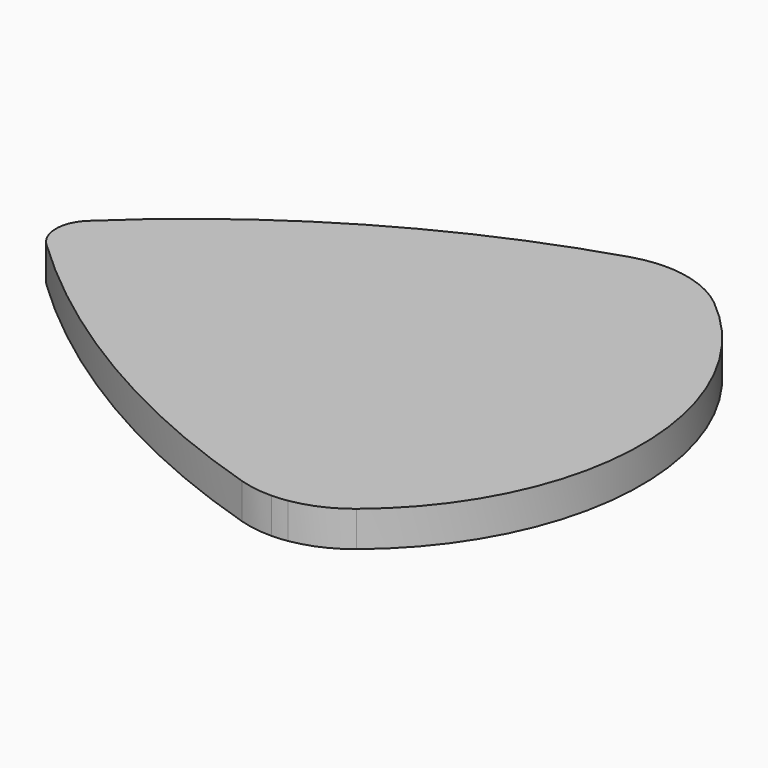
from build123d import *

# Parameters (mm, degrees)
F1_DEPTH = 2


with BuildPart() as f1:
    # F0 (on Top) → F1 (new body)
    with BuildSketch(Plane.XY):
        with BuildLine():
            ThreePointArc((11.1649047476, 12.5783107155), (9.8329572309, 13.4016453318), (8.3333333333, 13.8523028998))
            Line((8.3333333333, 13.8523028998), (8.3333333333, -13.8523028998))
            ThreePointArc((8.3333333333, -13.8523028998), (9.8329572309, -13.4016453318), (11.1649047476, -12.5783107155))
            ThreePointArc((11.1649047476, -12.5783107155), (17.1348497569, 0), (11.1649047476, 12.5783107155))
        make_face()
        with BuildLine():
            Line((-15.7509446573, 0.5286923486), (7.4596030559, 13.9293083189))
            ThreePointArc((7.4596030559, 13.9293083189), (6.5123283216, 13.8681833447), (5.5865486661, 13.6584270232))
            ThreePointArc((5.5865486661, 13.6584270232), (-5.509015056, 8.7495672284), (-15.2001152547, 1.4494976579))
            ThreePointArc((-15.2001152547, 1.4494976579), (-15.5384332519, 1.0267240053), (-15.7509446573, 0.5286923486))
        make_face()
        with BuildLine():
            Line((8.3333333333, -13.8523028998), (8.3333333333, 13.8523028998))
            ThreePointArc((8.3333333333, 13.8523028998), (7.8978772202, 13.9067929034), (7.4596030559, 13.9293083189))
            Line((7.4596030559, 13.9293083189), (-15.7509446573, 0.5286923486))
            ThreePointArc((-15.7509446573, 0.5286923486), (-15.8220889342, 0), (-15.7509446573, -0.5286923486))
            Line((-15.7509446573, -0.5286923486), (7.4596030559, -13.9293083189))
            ThreePointArc((7.4596030559, -13.9293083189), (7.8978772202, -13.9067929034), (8.3333333333, -13.8523028998))
        make_face()
        with BuildLine():
            ThreePointArc((5.5865486661, -13.6584270232), (6.5123283216, -13.8681833447), (7.4596030559, -13.9293083189))
            Line((7.4596030559, -13.9293083189), (-15.7509446573, -0.5286923486))
            ThreePointArc((-15.7509446573, -0.5286923486), (-15.5384332519, -1.0267240053), (-15.2001152547, -1.4494976579))
            ThreePointArc((-15.2001152547, -1.4494976579), (-5.509015056, -8.7495672284), (5.5865486661, -13.6584270232))
        make_face()
    extrude(amount=F1_DEPTH)


solid = f1.part
